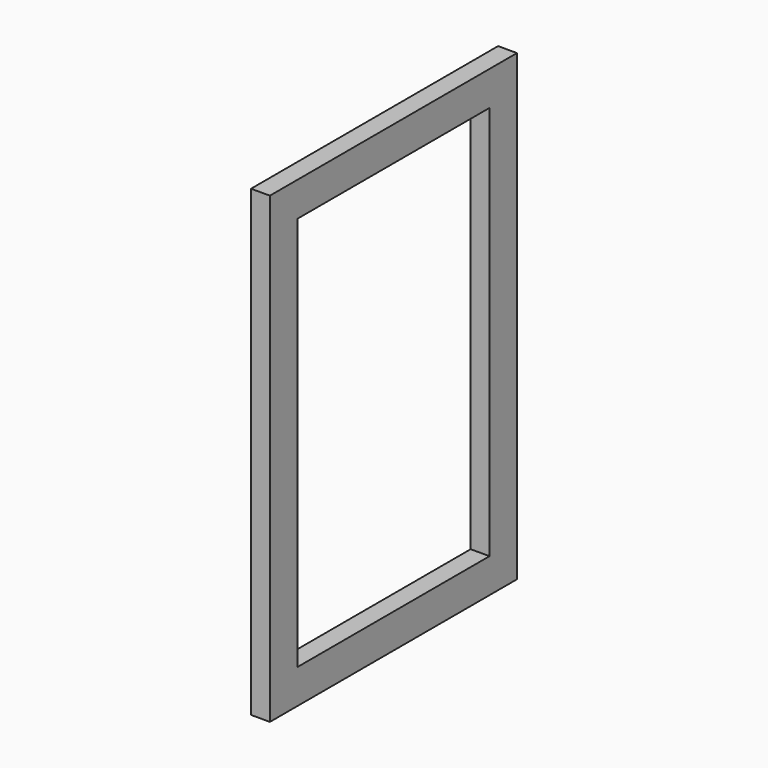
from build123d import *

# Parameters (mm, degrees)
F0_W     = 180
F0_H     = 270
F0_W_2   = 140
F0_H_2   = 230
F1_DEPTH = 11


with BuildPart() as f1:
    # F0 (on Right) → F1 (new body)
    with BuildSketch(Plane.YZ):
        with Locations((-34.164113, -2.262233)):
            Rectangle(F0_W, F0_H)
        with Locations((-34.164113, -2.262233)):
            Rectangle(F0_W_2, F0_H_2, mode=Mode.SUBTRACT)
        with Locations((-34.164113, -2.262233)):
            Rectangle(F0_W, F0_H)
        with Locations((-34.164113, -2.262233)):
            Rectangle(F0_W_2, F0_H_2, mode=Mode.SUBTRACT)
    extrude(amount=F1_DEPTH)


solid = f1.part
